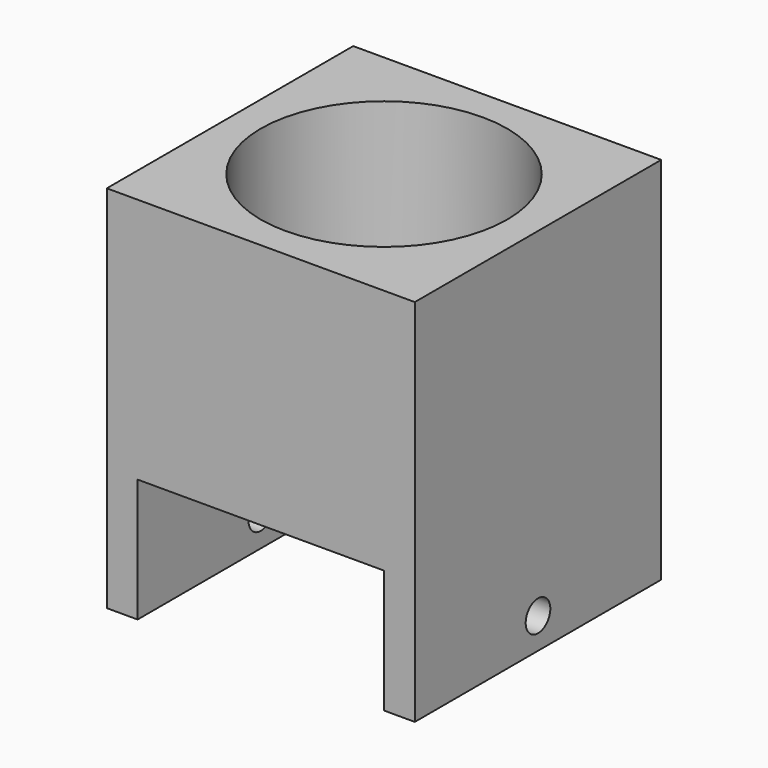
from build123d import *

# Parameters (mm, degrees)
F0_W     = 127
F0_H     = 127
F1_DEPTH = 152.4
F2_R     = 50.8
F3_DEPTH = 127
F4_W     = 101.6
F4_H     = 119.7034602863
F5_DEPTH = 63.5
F6_R     = 6.35
F7_DEPTH = 127


with BuildPart() as f1:
    # F0 (on Top) → F1 (new body)
    with BuildSketch(Plane.XY):
        Rectangle(F0_W, F0_H)
    extrude(amount=F1_DEPTH)

    # F2 (on face) → F3 (cut)
    with BuildSketch(Plane.XY.offset(152.4)):
        Circle(F2_R)
    extrude(amount=-F3_DEPTH, mode=Mode.SUBTRACT)

    # F4 (on Front) → F5 (cut, symmetric)
    with BuildSketch(Plane.XZ):
        with Locations((0, -9.0517301432)):
            Rectangle(F4_W, F4_H)
    extrude(amount=F5_DEPTH, both=True, mode=Mode.SUBTRACT)

    # F6 (on face) → F7 (cut)
    with BuildSketch(Plane.YZ.offset(63.5)):
        with Locations((0, 12.7)):
            Circle(F6_R)
    extrude(amount=-F7_DEPTH, mode=Mode.SUBTRACT)


solid = f1.part
